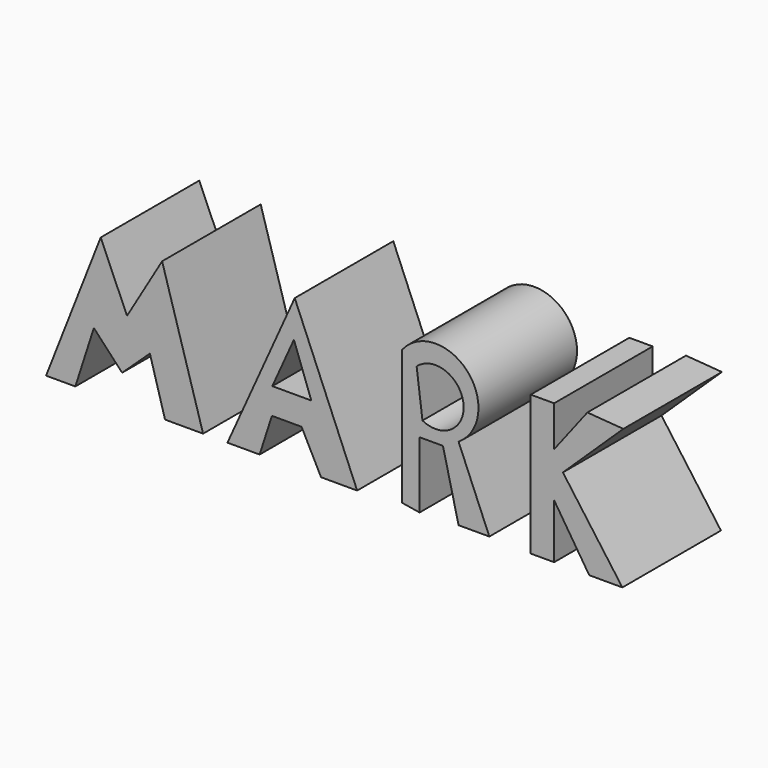
from build123d import *

# Parameters (mm, degrees)
F1_DEPTH = 25.4


with BuildPart() as f1:
    # F0 (on Front) → F1 (new body)
    with BuildSketch(Plane.XZ):
        Polygon((-57.494622, -8.242236), (-68.752311, -36.989547), (-62.721409, -36.989547), (-58.901832, -25.128769), (-53.071961, -31.360704), (-47.355316, -26.01288), (-44.226635, -36.989547), (-36.386456, -36.989547), (-44.829722, -8.443266), (-52.06681, -20.706106), align=None)
        Polygon((-17.489623, -6.231935), (-31.360704, -36.989547), (-24.726709, -36.989547), (-22.197557, -29.135873), (-16.082412, -29.135873), (-12.061809, -36.989547), (-4.623693, -36.989547), align=None)
        Polygon((-14.07211, -23.721559), (-19.139984, -23.721559), (-22.113318, -23.721559), (-17.659504, -13.845711), align=None, mode=Mode.SUBTRACT)
        with BuildLine():
            ThreePointArc((16.283443, -21.309197), (18.10602, -7.941196), (4.623692, -8.443266))
            Line((4.623692, -8.443266), (4.623692, -36.185429))
            Line((4.623692, -36.185429), (8.242236, -36.788519))
            Line((8.242236, -36.788519), (8.242236, -23.118468))
            Line((8.242236, -23.118468), (13.06696, -23.118468))
            Line((13.06696, -23.118468), (16.283443, -36.474976))
            Line((16.283443, -36.474976), (22.627299, -36.474976))
            Line((22.627299, -36.474976), (16.283443, -21.309197))
        make_face()
        with BuildLine():
            ThreePointArc((7.639145, -10.453568), (17.286889, -14.023139), (8.845327, -19.901985))
            Line((8.845327, -19.901985), (7.639145, -10.453568))
        make_face(mode=Mode.SUBTRACT)
        Polygon((35.984397, -7.941196), (31.159675, -7.941196), (31.159675, -36.788519), (35.984397, -36.788519), (35.984397, -25.530828), (43.221485, -36.788519), (50.056506, -36.788519), (37.79367, -19.901985), (50.257538, -7.941196), (42.838893, -7.381199), (35.984397, -16.283441), align=None)
    extrude(amount=F1_DEPTH)


solid = f1.part
